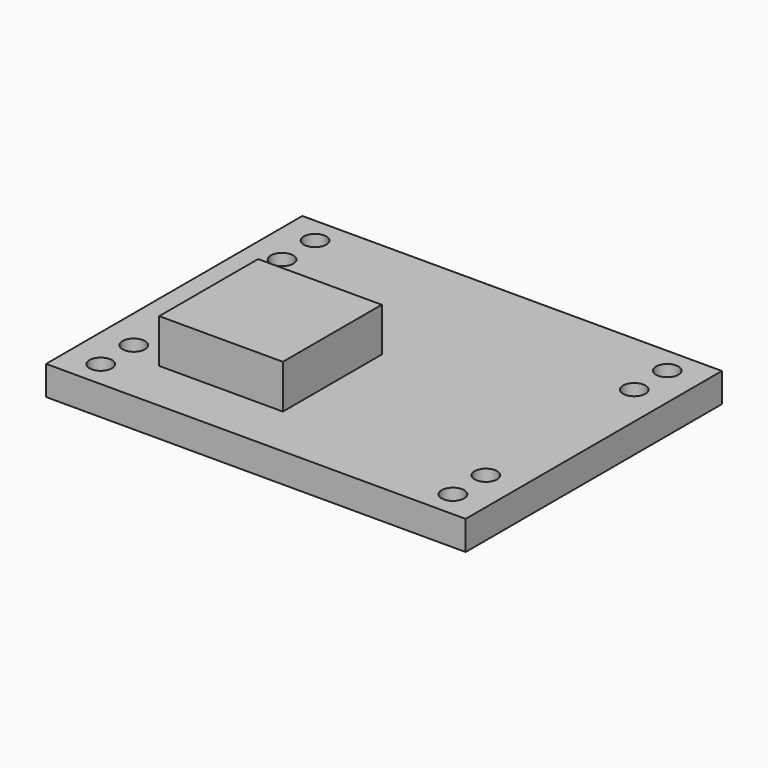
from build123d import *

# Parameters (mm, degrees)
F0_W     = 22.4
F0_H     = 17.1
F0_R     = 0.6
F1_DEPTH = 1.56
F2_W     = 6.6
F2_H     = 6.6
F3_DEPTH = 2.34


with BuildPart() as f1:
    # F0 (on Top) → F1 (new body)
    with BuildSketch(Plane.XY):
        with Locations((-11.2, 8.55)):
            Rectangle(F0_W, F0_H)
        with Locations((-20.6, 1.4)):
            Circle(F0_R, mode=Mode.SUBTRACT)
        with Locations((-20.6, 3.6)):
            Circle(F0_R, mode=Mode.SUBTRACT)
        with Locations((-1.8, 1.4)):
            Circle(F0_R, mode=Mode.SUBTRACT)
        with Locations((-1.8, 3.6)):
            Circle(F0_R, mode=Mode.SUBTRACT)
        with Locations((-20.6, 13.5)):
            Circle(F0_R, mode=Mode.SUBTRACT)
        with Locations((-20.6, 15.7)):
            Circle(F0_R, mode=Mode.SUBTRACT)
        with Locations((-1.8, 13.5)):
            Circle(F0_R, mode=Mode.SUBTRACT)
        with Locations((-1.8, 15.7)):
            Circle(F0_R, mode=Mode.SUBTRACT)
    extrude(amount=F1_DEPTH)

    # F2 (on face) → F3 (join)
    with BuildSketch(Plane.XY.offset(1.56)):
        with Locations((-15.3, 6.1)):
            Rectangle(F2_W, F2_H)
    extrude(amount=F3_DEPTH)


solid = f1.part
